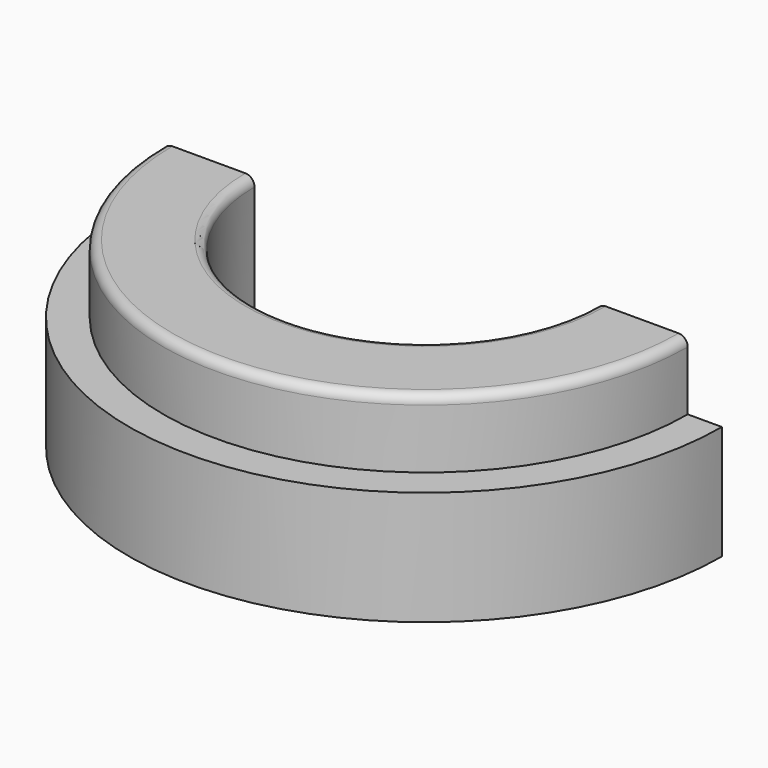
from build123d import *

# Parameters (mm, degrees)
F2_W     = 32.4015552178
F2_H     = 32.2648398578
F3_DEPTH = 25
F4_R     = 0.2


with BuildPart() as f1:
    # F0 (on Front) → F1 (revolve)
    with BuildSketch(Plane.XZ):
        Polygon((22.2295931596, 4.1953726299), (20.2295931596, 4.1953726299), (20.2295931596, 2.6953726299), (19.4795931596, 2.6953726299), (19.4795931596, 0.1953726299), (22.2295931596, 0.1953726299), align=None)
    revolve(axis=Axis((25.9795931596, 0, 0.8535729721), (0, 0, -1)))

    # F2 (on Front) → F3 (cut)
    with BuildSketch(Plane.XZ):
        with Locations((27.7060153894, 1.3981740922)):
            Rectangle(F2_W, F2_H)
    extrude(amount=-F3_DEPTH, mode=Mode.SUBTRACT)

    # F4
    f4_edges = [f1.edges().sort_by_distance(p)[0] for p in [
        (25.979593, -5.75, 4.195373),
        (25.979593, -3.75, 4.195373),
    ]]
    fillet(f4_edges, radius=F4_R)


solid = f1.part
